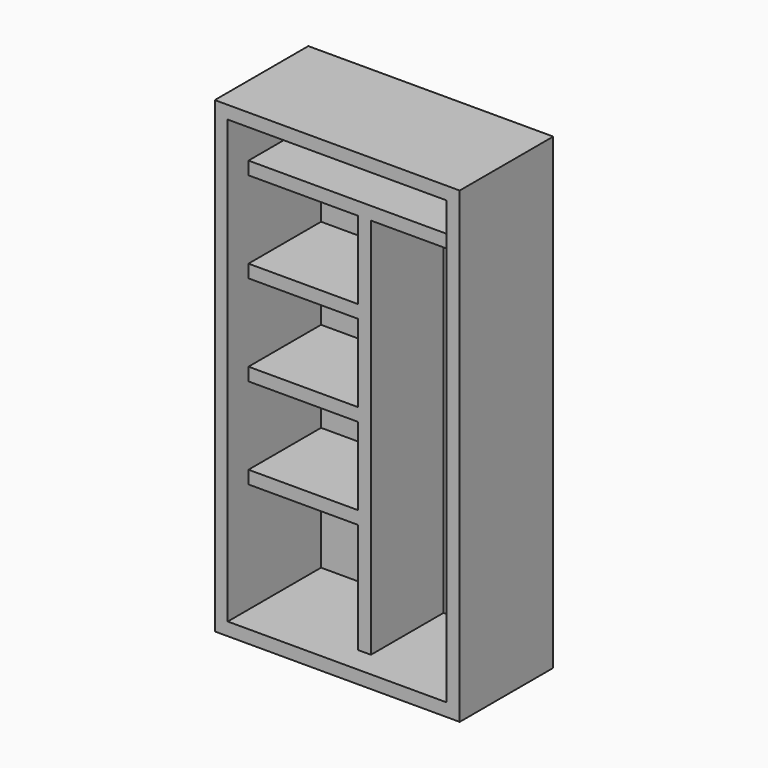
from build123d import *

# Parameters (mm, degrees)
F0_W     = 945
F0_H     = 1805
F0_W_2   = 845
F0_H_2   = 1705
F1_DEPTH = 450
F2_W     = 945
F2_H     = 1805
F3_DEPTH = 1
F4_W     = 422.5
F4_H     = 50
F5_DEPTH = 350


with BuildPart() as f1:
    # F0 (on Front) → F1 (new body)
    with BuildSketch(Plane.XZ):
        Rectangle(F0_W, F0_H)
        Rectangle(F0_W_2, F0_H_2, mode=Mode.SUBTRACT)
    extrude(amount=F1_DEPTH)

    # F2 (on face) → F3 (join)
    with BuildSketch(Plane(origin=(0, 0, 0), x_dir=(-1, 0, 0), z_dir=(0, 1, 0))):
        Rectangle(F2_W, F2_H)
    extrude(amount=F3_DEPTH)

    # F4 (on face) → F5 (join)
    with BuildSketch(Plane.XZ):
        Polygon((422.5, 672.5), (-422.5, 672.5), (-422.5, 622.5), (0, 622.5), (50, 622.5), (422.5, 622.5), align=None)
        Polygon((50, 622.5), (0, 622.5), (0, 322.5), (0, 272.5), (0, -27.5), (0, -77.5), (0, -377.5), (0, -427.5), (0, -852.5), (50, -852.5), align=None)
        with Locations((-211.25, 297.5)):
            Rectangle(F4_W, F4_H)
        with Locations((-211.25, -52.5)):
            Rectangle(F4_W, F4_H)
        with Locations((-211.25, -402.5)):
            Rectangle(F4_W, F4_H)
    extrude(amount=F5_DEPTH)


solid = f1.part
